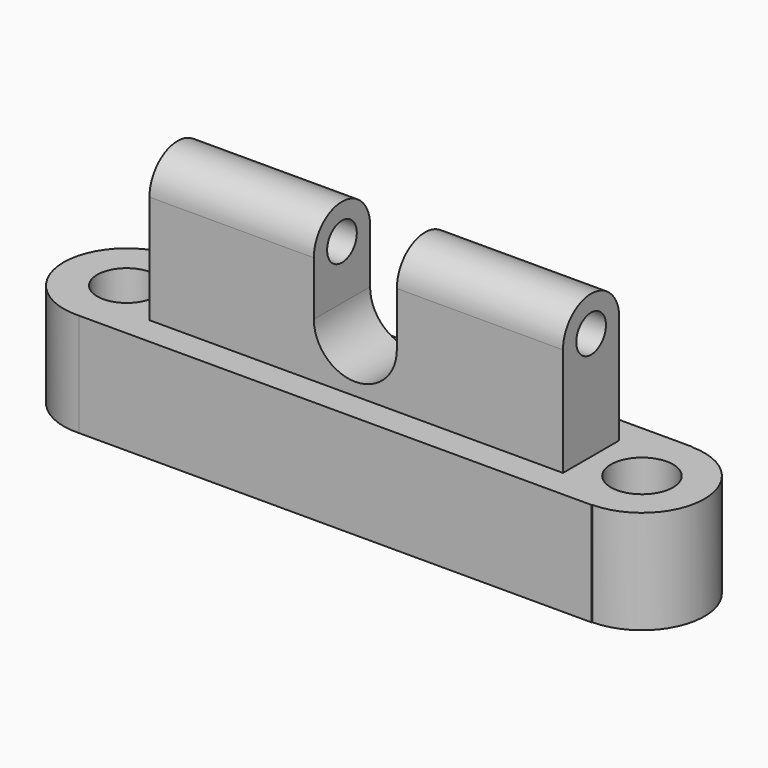
from build123d import *

# Parameters (mm, degrees)
F1_DEPTH  = 25.4
F3_DEPTH  = 50.8
F4_R      = 4.560216
F5_DEPTH  = 129.59043
F6_R      = 7.233816
F7_DEPTH  = 25.401
F8_R      = 7.639028
F9_DEPTH  = 25.401
F10_W     = 20.391929
F10_H     = 22.091255
F11_DEPTH = 24.128729


with BuildPart() as f1:
    # F0 (on Top) → F1 (new body)
    with BuildSketch(Plane.XY):
        with BuildLine():
            Line((-63.29995, -15.472882), (-63.29995, 15.472882))
            Line((-63.29995, 15.472882), (-63.184723, 15.472882))
            Line((-63.184723, 15.472882), (-62.583075, 15.472882))
            ThreePointArc((-62.583075, 15.472882), (-78.78943, 0), (-62.583075, -15.472882))
            Line((-62.583075, -15.472882), (-63.29995, -15.472882))
        make_face()
        Polygon((-63.184723, 15.472882), (-63.29995, 15.472882), (-63.29995, -15.472882), (-62.583075, -15.472882), (63.29995, -15.472882), (63.29995, -15.339221), (63.29995, 15.339221), (63.29995, 15.472882), (-62.583075, 15.472882), align=None)
        with BuildLine():
            ThreePointArc((63.687565, -15.334322), (78.637946, 0.193823), (63.29995, 15.339221))
            Line((63.29995, 15.339221), (63.29995, -15.339221))
            ThreePointArc((63.29995, -15.339221), (63.493773, -15.337996), (63.687565, -15.334322))
        make_face()
    extrude(amount=F1_DEPTH)

    # F6 (on face) → F7 (cut, through all)
    with BuildSketch(Plane.XY.offset(25.4)):
        with Locations((-63.29995, 0)):
            Circle(F6_R)
    extrude(amount=-F7_DEPTH, mode=Mode.SUBTRACT)

    # F8 (on face) → F9 (cut, through all)
    with BuildSketch(Plane.XY.offset(25.4)):
        with Locations((63.29995, 0)):
            Circle(F8_R)
    extrude(amount=-F9_DEPTH, mode=Mode.SUBTRACT)


with BuildPart() as f3:
    # F2 (on Right) → F3 (new body, symmetric)
    with BuildSketch(Plane.YZ):
        with BuildLine():
            Line((-8.638249, 25.489913), (8.638249, 25.489913))
            Line((8.638249, 25.489913), (8.638249, 52.112712))
            ThreePointArc((8.638249, 52.112712), (0, 60.75096), (-8.638249, 52.112712))
            Line((-8.638249, 52.112712), (-8.638249, 25.489913))
        make_face()
    extrude(amount=F3_DEPTH, both=True)

    # F4 (on face) → F5 (cut, through all)
    with BuildSketch(Plane.YZ.offset(50.8)):
        with Locations((0, 52.112712)):
            Circle(F4_R)
    extrude(amount=-F5_DEPTH, mode=Mode.SUBTRACT)

    # F10 (on face) → F11 (cut, through all)
    with BuildSketch(Plane.XZ.offset(8.638249)):
        with Locations((-0.216738, 49.846939)):
            Rectangle(F10_W, F10_H)
        with BuildLine():
            Line((9.979226, 38.801312), (-10.412703, 38.801312))
            ThreePointArc((-10.412703, 38.801312), (-0.216739, 28.605348), (9.979226, 38.801312))
        make_face()
    extrude(amount=-F11_DEPTH, mode=Mode.SUBTRACT)


solid = Compound([f1.part, f3.part])
